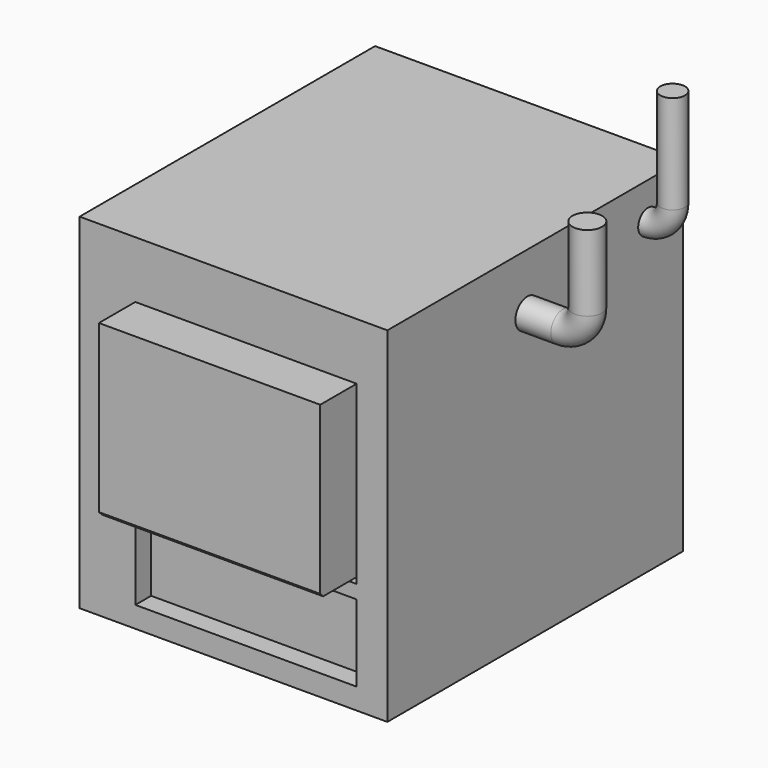
from build123d import *

# Parameters (mm, degrees)
F0_W     = 2500
F0_H     = 3000
F1_DEPTH = 2800
F2_W     = 1797.5258827209
F2_H     = 1382.1721076965
F3_DEPTH = 369.89699
F4_W     = 1797.5258827209
F4_H     = 49.607694149
F5_DEPTH = 180
F6_W     = 1797.5258827209
F6_H     = 623.8443106413
F7_DEPTH = 160
F8_R     = 100
F12_SIZE = 30
F13_R    = 120.7118368122


with BuildPart() as f1:
    # F0 (on Top) → F1 (new body)
    with BuildSketch(Plane.XY):
        with Locations((7833.8022232056, -6590.0049209595)):
            Rectangle(F0_W, F0_H)
    extrude(amount=F1_DEPTH)

    # F2 (on face) → F3 (join)
    with BuildSketch(Plane.XZ.offset(8090.0049209595)):
        with Locations((7935.3263378143, 1646.0011005402)):
            Rectangle(F2_W, F2_H)
    extrude(amount=F3_DEPTH)

    # F4 (on face) → F5 (cut)
    with BuildSketch(Plane.XZ.offset(8090.0049209595)):
        with Locations((7935.3263378143, 930.1111996174)):
            Rectangle(F4_W, F4_H)
    extrude(amount=-F5_DEPTH, mode=Mode.SUBTRACT)

    # F6 (on face) → F7 (cut)
    with BuildSketch(Plane.XZ.offset(8090.0049209595)):
        with Locations((7935.3263378143, 482.8957691789)):
            Rectangle(F6_W, F6_H)
    extrude(amount=-F7_DEPTH, mode=Mode.SUBTRACT)

    # F11: sweep along a path in F10
    with BuildLine(Plane.XZ.offset(5443.7756538391)) as f11_path:
        ThreePointArc((9083.8022232056, 2501.4123916626), (9225.2235794429, 2559.9910354253), (9283.8022232056, 2701.4123916626))
        Line((9283.8022232056, 2701.4123916626), (9283.8022232056, 3501.4123916626))
    # F8 (on face) → F11 (sweep)
    with BuildSketch(Plane.YZ.offset(9083.8022232056)):
        with Locations((-5443.7756538391, 2501.4123916626)):
            Circle(F8_R)
    sweep(path=f11_path.line)

    # F12
    f12_edges = [f1.edges().sort_by_distance(p)[0] for p in [
        (7935.326338, -8459.901911, 954.915047),
    ]]
    chamfer(f12_edges, length=F12_SIZE)


with BuildPart() as f16:
    # F16: sweep along a path in F15
    with BuildLine(Plane.XZ.offset(6669.5251464844)) as f16_path:
        Line((9083.8022232056, 2344.4001674652), (9371.0576248169, 2344.4001674652))
        ThreePointArc((9371.0576248169, 2344.4001674652), (9512.4789810542, 2402.9788112279), (9571.0576248169, 2544.4001674652))
        Line((9571.0576248169, 2544.4001674652), (9571.0576248169, 3160.710401535))
    # F13 (on face) → F16 (sweep)
    with BuildSketch(Plane.YZ.offset(9083.8022232056)):
        with Locations((-6669.5251464844, 2344.4001674652)):
            Circle(F13_R)
    sweep(path=f16_path.line)


solid = Compound([f1.part, f16.part])
